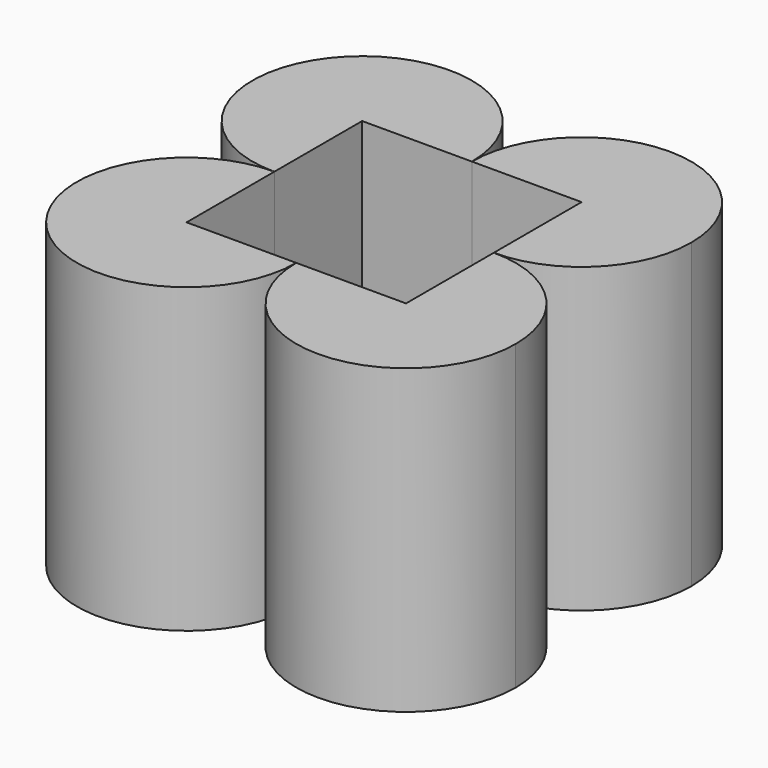
from build123d import *

# Parameters (mm, degrees)
F1_DEPTH = 25.4


with BuildPart() as f1:
    # F0 (on Top) → F1 (new body)
    with BuildSketch(Plane.XY):
        with BuildLine():
            ThreePointArc((-28.293273, 92.911288), (-44.01949, 99.4253), (-37.505478, 83.699084))
            Line((-37.505478, 83.699084), (-37.505478, 92.911288))
            Line((-37.505478, 92.911288), (-28.293273, 92.911288))
        make_face()
        with BuildLine():
            Line((-19.081069, 92.911288), (-19.081069, 83.699084))
            ThreePointArc((-19.081069, 83.699084), (-12.567056, 86.397276), (-9.868864, 92.911288))
            ThreePointArc((-9.868864, 92.911288), (-19.081069, 102.123493), (-28.293273, 92.911288))
            Line((-28.293273, 92.911288), (-19.081069, 92.911288))
        make_face()
        with BuildLine():
            Line((-19.081069, 74.486879), (-28.293273, 74.486879))
            ThreePointArc((-28.293273, 74.486879), (-19.081069, 65.274675), (-9.868864, 74.486879))
            ThreePointArc((-9.868864, 74.486879), (-12.567056, 81.000891), (-19.081069, 83.699084))
            Line((-19.081069, 83.699084), (-19.081069, 74.486879))
        make_face()
        with BuildLine():
            Line((-28.293273, 74.486879), (-37.505478, 74.486879))
            Line((-37.505478, 74.486879), (-37.505478, 83.699084))
            ThreePointArc((-37.505478, 83.699084), (-44.01949, 67.972867), (-28.293273, 74.486879))
        make_face()
    extrude(amount=F1_DEPTH)


solid = f1.part
